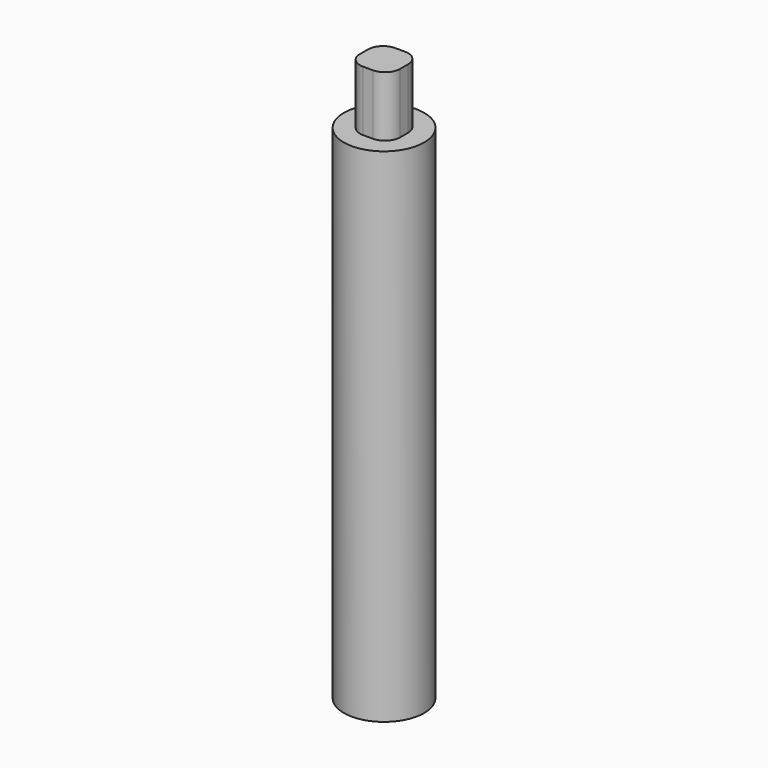
from build123d import *

# Parameters (mm, degrees)
F0_R     = 50.8
F1_DEPTH = 635
F2_W     = 50.8
F2_H     = 50.8
F3_DEPTH = 76.2
F4_R     = 19.05


with BuildPart() as f1:
    # F0 (on Top) → F1 (new body)
    with BuildSketch(Plane.XY):
        Circle(F0_R)
    extrude(amount=F1_DEPTH)

    # F2 (on face) → F3 (join)
    with BuildSketch(Plane.XY.offset(635)):
        Rectangle(F2_W, F2_H)
    extrude(amount=F3_DEPTH)

    # F4
    f4_edges = [f1.edges().sort_by_distance(p)[0] for p in [
        (25.4, -25.4, 673.1),
        (-25.4, -25.4, 673.1),
        (25.4, 25.4, 673.1),
        (-25.4, 25.4, 673.1),
    ]]
    fillet(f4_edges, radius=F4_R)


solid = f1.part
